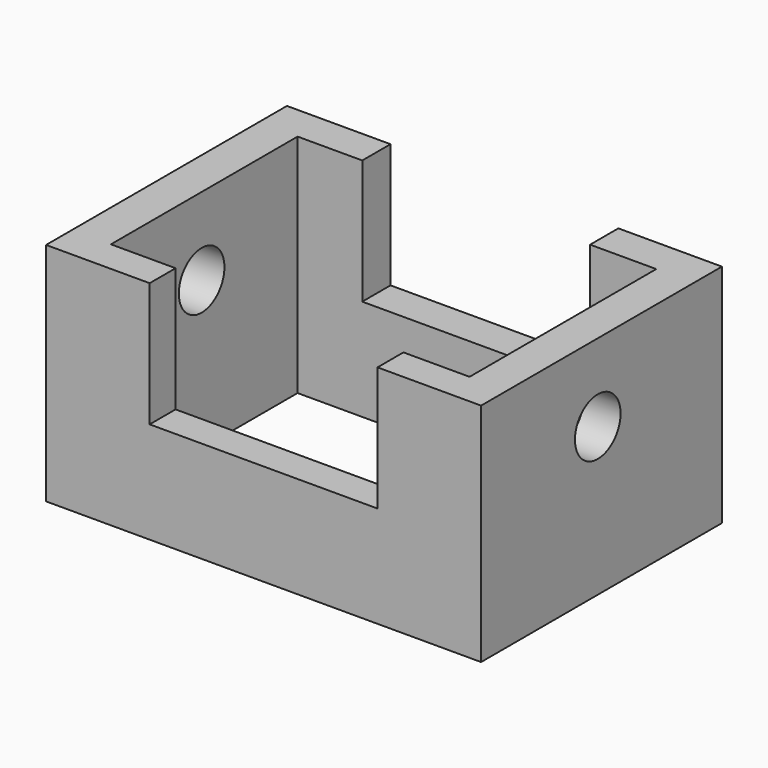
from build123d import *

# Parameters (mm, degrees)
F0_W     = 106.6799983382
F0_H     = 73.8282129169
F1_DEPTH = 55.372
F2_W     = 87.9580117762
F2_H     = 57.2256948799
F3_DEPTH = 57.15
F4_W     = 55.8799983382
F4_H     = 30.48
F5_DEPTH = 75.438
F6_R     = 6.9922217865
F7_DEPTH = 111.252


with BuildPart() as f1:
    # F0 (on Top) → F1 (new body)
    with BuildSketch(Plane.XY):
        with Locations((2.0311586559, 1.148045063)):
            Rectangle(F0_W, F0_H)
    extrude(amount=F1_DEPTH)

    # F2 (on face) → F3 (cut)
    with BuildSketch(Plane.XY.offset(55.372)):
        with Locations((2.2077802569, 0.7948009297)):
            Rectangle(F2_W, F2_H)
    extrude(amount=-F3_DEPTH, mode=Mode.SUBTRACT)

    # F4 (on face) → F5 (cut)
    with BuildSketch(Plane.XZ.offset(35.7660613954)):
        with Locations((2.0311586559, 40.132)):
            Rectangle(F4_W, F4_H)
    extrude(amount=-F5_DEPTH, mode=Mode.SUBTRACT)

    # F6 (on face) → F7 (cut)
    with BuildSketch(Plane(origin=(-51.3088405132, 0, 0), x_dir=(0, -1, 0), z_dir=(-1, 0, 0))):
        with Locations((0, 36.295928061)):
            Circle(F6_R)
    extrude(amount=-F7_DEPTH, mode=Mode.SUBTRACT)


solid = f1.part
